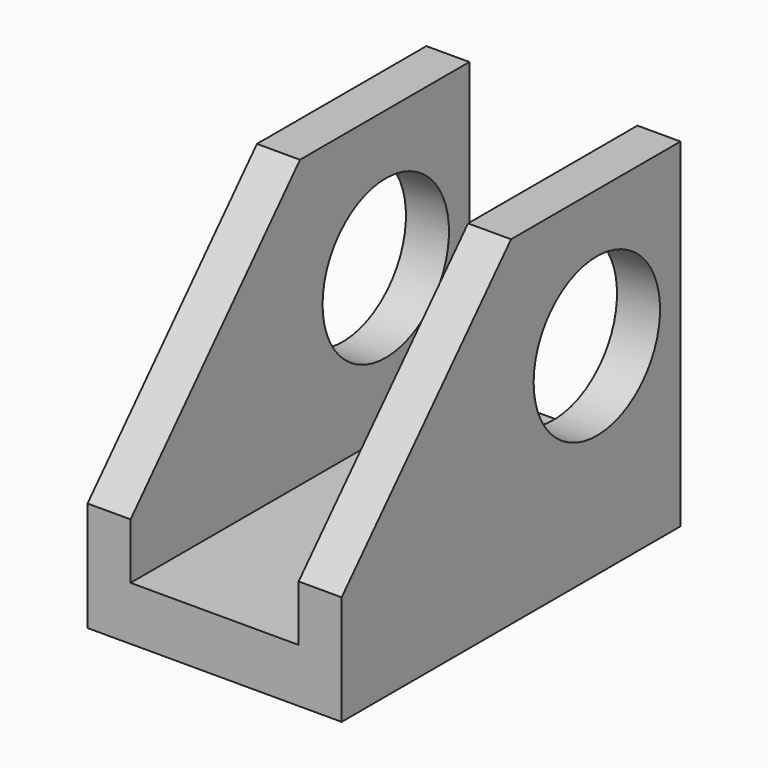
from build123d import *

# Parameters (mm, degrees)
F1_DEPTH = 25
F3_DEPTH = 5.08
F5_DEPTH = 5.08
F6_R     = 9.328151
F7_DEPTH = 30.001


with BuildPart() as f1:
    # F0 (on Front) → F1 (new body, symmetric)
    with BuildSketch(Plane.XZ):
        Polygon((-15, 0), (0, 0), (15, 0), (15, 6.35), (15, 12.947081), (9.92, 12.947081), (9.92, 6.35), (0, 6.35), (-9.92, 6.35), (-9.92, 12.947081), (-15, 12.947081), (-15, 6.35), align=None)
    extrude(amount=F1_DEPTH, both=True)

    # F2 (on face) → F3 (join)
    with BuildSketch(Plane.YZ.offset(15)):
        Polygon((25, 12.947081), (25, 40), (0, 40), (-25, 12.947081), align=None)
    extrude(amount=-F3_DEPTH)

    # F4 (on face) → F5 (join)
    with BuildSketch(Plane(origin=(-15, 0, 0), x_dir=(0, -1, 0), z_dir=(-1, 0, 0))):
        Polygon((-25, 40.16066), (-25, 12.947081), (0, 12.947081), (25, 12.947081), (0, 40.16066), align=None)
    extrude(amount=-F5_DEPTH)

    # F6 (on face) → F7 (cut, through all)
    with BuildSketch(Plane(origin=(-15, 0, 0), x_dir=(0, -1, 0), z_dir=(-1, 0, 0))):
        with Locations((-12.660467, 23.76432)):
            Circle(F6_R)
    extrude(amount=-F7_DEPTH, mode=Mode.SUBTRACT)


solid = f1.part
